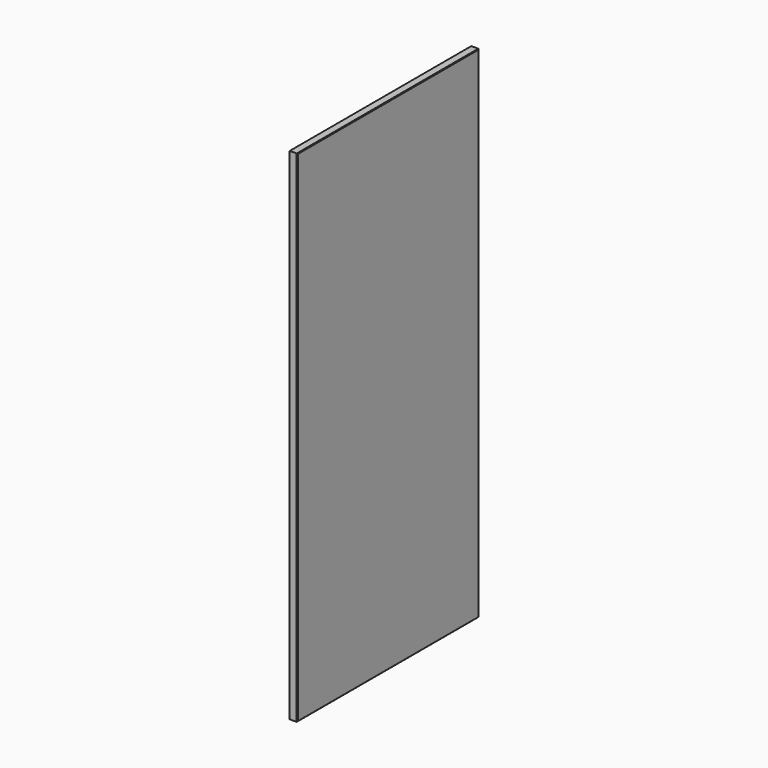
from build123d import *

# Parameters (mm, degrees)
F0_W     = 55.4160475731
F0_H     = 42.9720431566
F1_DEPTH = 14
F2_DEPTH = 1060
F3_DEPTH = 390
F4_DEPTH = 200
F5_SIZE  = 1


with BuildPart() as f1:
    # F0 (on Right) → F1 (new body)
    with BuildSketch(Plane.YZ):
        with Locations((-27.7080237865, 21.4860215783)):
            Rectangle(F0_W, F0_H)
    extrude(amount=-F1_DEPTH)

    # F2 (add): a face of the model
    f2_faces = [f1.faces().sort_by_distance(p)[0] for p in [
        (-7, -27.7080237865, 0),
    ]]
    extrude(f2_faces, amount=-F2_DEPTH)

    # F3 (add): a face of the model
    f3_faces = [f1.faces().sort_by_distance(p)[0] for p in [
        (-7, 0, 530),
    ]]
    extrude(f3_faces, amount=-F3_DEPTH)

    # F4 (cut): a face of the model
    f4_faces = [f1.faces().sort_by_distance(p)[0] for p in [
        (-7, -195, 1060),
    ]]
    extrude(f4_faces, amount=-F4_DEPTH, mode=Mode.SUBTRACT)

    # F5
    f5_edges = [f1.edges().sort_by_distance(p)[0] for p in [
        (0, -195, 0),
        (0, -390, 430),
        (0, -195, 860),
        (0, 0, 430),
        (-14, -195, 0),
        (-14, -390, 430),
        (-14, -195, 860),
        (-14, 0, 430),
    ]]
    chamfer(f5_edges, length=F5_SIZE)


solid = f1.part
